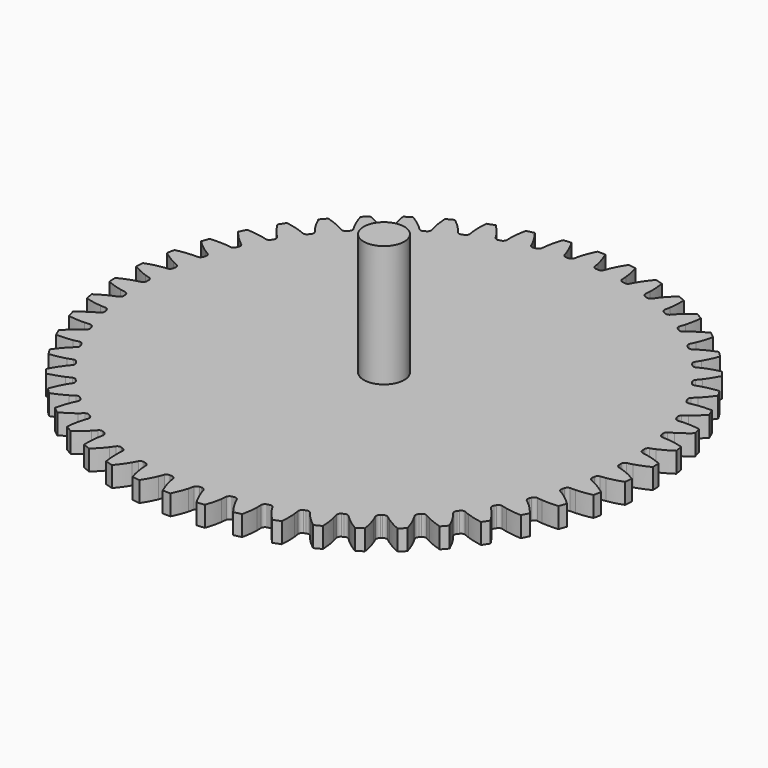
from build123d import *

# Parameters (mm, degrees)
PAD003_DEPTH            = 5
SKETCH003_R             = 5
POCKET002_DEPTH         = 5.001
SKETCH006_R             = 5
PAD006_DEPTH            = 30
BODY002_PLACEMENT_ANGLE = 2.2


with BuildPart() as part:
    # InvoluteGear003 → Pad003 (new body)
    with BuildSketch(Plane.XY):
        with BuildLine():
            add(Edge.make_bspline(
                [(59.943622, -2.600414), (60.304221, -2.541217), (60.738979, -2.453332), (61.24426, -2.323243)],
                knots=[0, 0, 0, 0, 1, 1, 1, 1], degree=3))
            add(Edge.make_bspline(
                [(61.24426, -2.323243), (62.239893, -2.066782), (63.503358, -1.64839), (64.993593, -0.968929)],
                knots=[0, 0, 0, 0, 1, 1, 1, 1], degree=3))
            ThreePointArc((64.993593, -0.968929), (65.000815, 0), (64.993593, 0.968929))
            add(Edge.make_bspline(
                [(64.993593, 0.968929), (63.503358, 1.64839), (62.239893, 2.066782), (61.24426, 2.323243)],
                knots=[0, 0, 0, 0, 1, 1, 1, 1], degree=3))
            add(Edge.make_bspline(
                [(61.24426, 2.323243), (60.738979, 2.453332), (60.304221, 2.541217), (59.943679, 2.600401)],
                knots=[0, 0, 0, 0, 1, 1, 1, 1], degree=3))
            ThreePointArc((59.943679, 2.600401), (59.459823, 2.936535), (59.272049, 3.494964))
            ThreePointArc((59.272049, 3.494964), (59.257837, 3.728187), (59.242707, 3.961352))
            ThreePointArc((59.242707, 3.961352), (59.358994, 4.538889), (59.796867, 4.933019))
            add(Edge.make_bspline(
                [(59.796867, 4.933019), (60.147203, 5.036944), (60.567518, 5.178626), (61.052511, 5.371018)],
                knots=[0, 0, 0, 0, 1, 1, 1, 1], degree=3))
            add(Edge.make_bspline(
                [(61.052511, 5.371018), (62.00815, 5.750243), (63.209213, 6.323689), (64.602538, 7.184568)],
                knots=[0, 0, 0, 0, 1, 1, 1, 1], degree=3))
            ThreePointArc((64.602538, 7.184568), (64.488264, 8.146762), (64.35966, 9.107146))
            add(Edge.make_bspline(
                [(64.35966, 9.107146), (62.796017, 9.594473), (61.490077, 9.851211), (60.470151, 9.980865)],
                knots=[0, 0, 0, 0, 1, 1, 1, 1], degree=3))
            add(Edge.make_bspline(
                [(60.470151, 9.980865), (59.95255, 10.0466), (59.510205, 10.079302), (59.145089, 10.092831)],
                knots=[0, 0, 0, 0, 1, 1, 1, 1], degree=3))
            ThreePointArc((59.145089, 10.092831), (58.622919, 10.365671), (58.366636, 10.896163))
            ThreePointArc((58.366636, 10.896163), (58.323306, 11.125766), (58.279071, 11.355196))
            ThreePointArc((58.279071, 11.355196), (58.322057, 11.942753), (58.70708, 12.388655))
            add(Edge.make_bspline(
                [(58.70708, 12.388655), (59.041628, 12.53567), (59.440871, 12.728913), (59.897926, 12.980574)],
                knots=[0, 0, 0, 0, 1, 1, 1, 1], degree=3))
            add(Edge.make_bspline(
                [(59.897926, 12.980574), (60.7985, 13.476582), (61.918221, 14.19604), (63.192663, 15.224761)],
                knots=[0, 0, 0, 0, 1, 1, 1, 1], degree=3))
            ThreePointArc((63.192663, 15.224761), (62.958695, 16.165045), (62.710737, 17.101738))
            add(Edge.make_bspline(
                [(62.710737, 17.101738), (61.098345, 17.389246), (59.770525, 17.480282), (58.742392, 17.481082)],
                knots=[0, 0, 0, 0, 1, 1, 1, 1], degree=3))
            add(Edge.make_bspline(
                [(58.742392, 17.481082), (58.220633, 17.481426), (57.777678, 17.45843), (57.413745, 17.426091)],
                knots=[0, 0, 0, 0, 1, 1, 1, 1], degree=3))
            ThreePointArc((57.413745, 17.426091), (56.861497, 17.631335), (56.540747, 18.125523))
            ThreePointArc((56.540747, 18.125523), (56.468981, 18.347884), (56.39634, 18.569961))
            ThreePointArc((56.39634, 18.569961), (56.365347, 19.158273), (56.691447, 19.648915))
            add(Edge.make_bspline(
                [(56.691447, 19.648915), (57.004931, 19.8367), (57.376806, 20.078459), (57.798716, 20.385419)],
                knots=[0, 0, 0, 0, 1, 1, 1, 1], degree=3))
            add(Edge.make_bspline(
                [(57.798716, 20.385419), (58.630022, 20.990388), (59.650742, 21.844511), (60.786201, 23.02485)],
                knots=[0, 0, 0, 0, 1, 1, 1, 1], degree=3))
            ThreePointArc((60.786201, 23.02485), (60.43623, 23.928396), (60.072828, 24.826625))
            add(Edge.make_bspline(
                [(60.072828, 24.826625), (58.437116, 24.909779), (57.108356, 24.833678), (56.08823, 24.705613)],
                knots=[0, 0, 0, 0, 1, 1, 1, 1], degree=3))
            add(Edge.make_bspline(
                [(56.08823, 24.705613), (55.570542, 24.64056), (55.133962, 24.562228), (54.776952, 24.484531)],
                knots=[0, 0, 0, 0, 1, 1, 1, 1], degree=3))
            ThreePointArc((54.776952, 24.484531), (54.203335, 24.618942), (53.823176, 25.069032))
            ThreePointArc((53.823176, 25.069032), (53.724106, 25.280645), (53.624205, 25.491867))
            ThreePointArc((53.624205, 25.491867), (53.519721, 26.071655), (53.781756, 26.5993))
            add(Edge.make_bspline(
                [(53.781756, 26.5993), (54.069232, 26.824894), (54.407874, 27.111355), (54.787985, 27.468774)],
                knots=[0, 0, 0, 0, 1, 1, 1, 1], degree=3))
            add(Edge.make_bspline(
                [(54.787985, 27.468774), (55.536914, 28.173163), (56.442535, 29.148481), (57.421105, 30.461823)],
                knots=[0, 0, 0, 0, 1, 1, 1, 1], degree=3))
            ThreePointArc((57.421105, 30.461823), (56.960649, 31.314382), (56.487535, 32.159981))
            add(Edge.make_bspline(
                [(56.487535, 32.159981), (54.854299, 32.037471), (53.545555, 31.795432), (52.549524, 31.540521)],
                knots=[0, 0, 0, 0, 1, 1, 1, 1], degree=3))
            add(Edge.make_bspline(
                [(52.549524, 31.540521), (52.044071, 31.411097), (51.620751, 31.278666), (51.276294, 31.156836)],
                knots=[0, 0, 0, 0, 1, 1, 1, 1], degree=3))
            ThreePointArc((51.276294, 31.156836), (50.690354, 31.218293), (50.256781, 31.617188))
            ThreePointArc((50.256781, 31.617188), (50.131971, 31.814716), (50.006384, 32.011751))
            ThreePointArc((50.006384, 32.011751), (49.830057, 32.573872), (50.023894, 33.130198))
            add(Edge.make_bspline(
                [(50.023894, 33.130198), (50.28083, 33.390044), (50.580898, 33.716688), (50.913215, 34.11893)],
                knots=[0, 0, 0, 0, 1, 1, 1, 1], degree=3))
            add(Edge.make_bspline(
                [(50.913215, 34.11893), (51.567955, 34.91163), (52.344195, 35.992762), (53.150444, 37.418395)],
                knots=[0, 0, 0, 0, 1, 1, 1, 1], degree=3))
            ThreePointArc((53.150444, 37.418395), (52.586764, 38.206521), (52.011399, 38.986156))
            add(Edge.make_bspline(
                [(52.011399, 38.986156), (50.406397, 38.659913), (49.138308, 38.255753), (48.182079, 37.878016)],
                knots=[0, 0, 0, 0, 1, 1, 1, 1], degree=3))
            add(Edge.make_bspline(
                [(48.182079, 37.878016), (47.696833, 37.686263), (47.29345, 37.50182), (46.966978, 37.337779)],
                knots=[0, 0, 0, 0, 1, 1, 1, 1], degree=3))
            ThreePointArc((46.966978, 37.337779), (46.377956, 37.325314), (45.897807, 37.666722))
            ThreePointArc((45.897807, 37.666722), (45.749224, 37.847049), (45.599932, 38.02679))
            ThreePointArc((45.599932, 38.02679), (45.354543, 38.562379), (45.477126, 39.138613))
            add(Edge.make_bspline(
                [(45.477126, 39.138613), (45.699468, 39.428612), (45.956231, 39.79029), (46.235514, 40.23101)],
                knots=[0, 0, 0, 0, 1, 1, 1, 1], degree=3))
            add(Edge.make_bspline(
                [(46.235514, 40.23101), (46.785739, 41.09952), (47.420356, 42.269415), (48.041568, 43.784857)],
                knots=[0, 0, 0, 0, 1, 1, 1, 1], degree=3))
            ThreePointArc((48.041568, 43.784857), (47.383555, 44.49612), (46.715013, 45.197495))
            add(Edge.make_bspline(
                [(46.715013, 45.197495), (45.163555, 44.672664), (43.95612, 44.112758), (43.054775, 43.618152)],
                knots=[0, 0, 0, 0, 1, 1, 1, 1], degree=3))
            add(Edge.make_bspline(
                [(43.054775, 43.618152), (42.597388, 43.367094), (42.220302, 43.133548), (41.916965, 42.929883)],
                knots=[0, 0, 0, 0, 1, 1, 1, 1], degree=3))
            ThreePointArc((41.916965, 42.929883), (41.334149, 42.843692), (40.814997, 43.122229))
            ThreePointArc((40.814997, 43.122229), (40.644984, 43.282512), (40.474343, 43.442125))
            ThreePointArc((40.474343, 43.442125), (40.163762, 43.942735), (40.213156, 44.529788))
            add(Edge.make_bspline(
                [(40.213156, 44.529788), (40.397399, 44.845368), (40.606807, 45.236375), (40.82865, 45.708623)],
                knots=[0, 0, 0, 0, 1, 1, 1, 1], degree=3))
            add(Edge.make_bspline(
                [(40.82865, 45.708623), (41.265684, 46.639246), (41.74867, 47.879455), (42.175048, 49.460806)],
                knots=[0, 0, 0, 0, 1, 1, 1, 1], degree=3))
            ThreePointArc((42.175048, 49.460806), (41.433079, 50.083989), (40.681903, 50.696043))
            add(Edge.make_bspline(
                [(40.681903, 50.696043), (39.208458, 49.980902), (38.080719, 49.274078), (37.248471, 48.670404)],
                knots=[0, 0, 0, 0, 1, 1, 1, 1], degree=3))
            add(Edge.make_bspline(
                [(37.248471, 48.670404), (36.826157, 48.364), (36.481316, 48.085034), (36.205896, 47.844956)],
                knots=[0, 0, 0, 0, 1, 1, 1, 1], degree=3))
            ThreePointArc((36.205896, 47.844956), (35.638479, 47.686399), (35.08851, 47.897673))
            ThreePointArc((35.08851, 47.897673), (34.899749, 48.035384), (34.710448, 48.172351))
            ThreePointArc((34.710448, 48.172351), (34.339573, 48.630088), (34.315001, 49.218703))
            add(Edge.make_bspline(
                [(34.315001, 49.218703), (34.458238, 49.554886), (34.616989, 49.969055), (34.777895, 50.465383)],
                knots=[0, 0, 0, 0, 1, 1, 1, 1], degree=3))
            add(Edge.make_bspline(
                [(34.777895, 50.465383), (35.094844, 51.443443), (35.418582, 52.734407), (35.643403, 54.356727)],
                knots=[0, 0, 0, 0, 1, 1, 1, 1], degree=3))
            ThreePointArc((35.643403, 54.356727), (34.829179, 54.882004), (34.007215, 55.395084))
            add(Edge.make_bspline(
                [(34.007215, 55.395084), (32.635019, 54.50091), (31.604761, 53.658317), (30.854737, 52.955095)],
                knots=[0, 0, 0, 0, 1, 1, 1, 1], degree=3))
            add(Edge.make_bspline(
                [(30.854737, 52.955095), (30.474155, 52.598177), (30.166997, 52.27819), (29.923839, 52.005487)],
                knots=[0, 0, 0, 0, 1, 1, 1, 1], degree=3))
            ThreePointArc((29.923839, 52.005487), (29.380768, 51.777063), (28.808656, 51.917742))
            ThreePointArc((28.808656, 51.917742), (28.604124, 52.030709), (28.39915, 52.14287))
            ThreePointArc((28.39915, 52.14287), (27.973829, 52.550515), (27.875678, 53.131409))
            add(Edge.make_bspline(
                [(27.875678, 53.131409), (27.975651, 53.482893), (28.081241, 53.913693), (28.178671, 54.426275)],
                knots=[0, 0, 0, 0, 1, 1, 1, 1], degree=3))
            add(Edge.make_bspline(
                [(28.178671, 54.426275), (28.370538, 55.436347), (28.529922, 56.757706), (28.549639, 58.395411)],
                knots=[0, 0, 0, 0, 1, 1, 1, 1], degree=3))
            ThreePointArc((28.549639, 58.395411), (27.676001, 58.814496), (26.796213, 59.220511))
            add(Edge.make_bspline(
                [(26.796213, 59.220511), (25.546907, 58.161406), (24.630378, 57.196332), (23.974405, 56.404652)],
                knots=[0, 0, 0, 0, 1, 1, 1, 1], degree=3))
            add(Edge.make_bspline(
                [(23.974405, 56.404652), (23.641558, 56.002849), (23.376926, 55.646888), (23.169864, 55.345859)],
                knots=[0, 0, 0, 0, 1, 1, 1, 1], degree=3))
            ThreePointArc((23.169864, 55.345859), (22.659705, 55.051172), (22.074473, 55.119037))
            ThreePointArc((22.074473, 55.119037), (21.857395, 55.205479), (21.639979, 55.291065))
            ThreePointArc((21.639979, 55.291065), (21.166921, 55.642189), (20.996739, 56.2062))
            add(Edge.make_bspline(
                [(20.996739, 56.2062), (21.05187, 56.567443), (21.102634, 57.00808), (21.135053, 57.528831)],
                knots=[0, 0, 0, 0, 1, 1, 1, 1], degree=3))
            add(Edge.make_bspline(
                [(21.135053, 57.528831), (21.198811, 58.554986), (21.191329, 59.885902), (21.005631, 61.513165)],
                knots=[0, 0, 0, 0, 1, 1, 1, 1], degree=3))
            ThreePointArc((21.005631, 61.513165), (20.086357, 61.819449), (19.162618, 62.111996))
            add(Edge.make_bspline(
                [(19.162618, 62.111996), (18.055905, 60.904663), (17.267559, 59.832327), (16.715982, 58.964674)],
                knots=[0, 0, 0, 0, 1, 1, 1, 1], degree=3))
            add(Edge.make_bspline(
                [(16.715982, 58.964674), (16.436119, 58.524323), (16.218188, 58.138002), (16.050488, 57.813395)],
                knots=[0, 0, 0, 0, 1, 1, 1, 1], degree=3))
            ThreePointArc((16.050488, 57.813395), (15.581285, 57.457092), (14.992162, 57.451072))
            ThreePointArc((14.992162, 57.451072), (14.765962, 57.509625), (14.539534, 57.567287))
            ThreePointArc((14.539534, 57.567287), (14.026198, 57.856352), (13.786668, 58.394587))
            add(Edge.make_bspline(
                [(13.786668, 58.394587), (13.796089, 58.759891), (13.791227, 59.203416), (13.758122, 59.724124)],
                knots=[0, 0, 0, 0, 1, 1, 1, 1], degree=3))
            add(Edge.make_bspline(
                [(13.758122, 59.724124), (13.692766, 60.750178), (13.518535, 62.069661), (13.130352, 63.660819)],
                knots=[0, 0, 0, 0, 1, 1, 1, 1], degree=3))
            ThreePointArc((13.130352, 63.660819), (12.179938, 63.849472), (11.226818, 64.023937))
            add(Edge.make_bspline(
                [(11.226818, 64.023937), (10.28015, 62.687416), (9.63242, 61.52473), (9.193938, 60.594788)],
                knots=[0, 0, 0, 0, 1, 1, 1, 1], degree=3))
            add(Edge.make_bspline(
                [(9.193938, 60.594788), (8.971473, 60.122833), (8.803679, 59.712244), (8.677985, 59.369178)],
                knots=[0, 0, 0, 0, 1, 1, 1, 1], degree=3))
            ThreePointArc((8.677985, 59.369178), (8.257139, 58.956878), (7.673415, 58.87707))
            ThreePointArc((7.673415, 58.87707), (7.441661, 58.90681), (7.209791, 58.935639))
            ThreePointArc((7.209791, 58.935639), (6.664274, 59.158086), (6.359174, 59.662056))
            add(Edge.make_bspline(
                [(6.359174, 59.662056), (6.322736, 60.02566), (6.262323, 60.465078), (6.164217, 60.977531)],
                knots=[0, 0, 0, 0, 1, 1, 1, 1], degree=3))
            add(Edge.make_bspline(
                [(6.164217, 60.977531), (5.970778, 61.987303), (5.632546, 63.274545), (5.047999, 64.804504)],
                knots=[0, 0, 0, 0, 1, 1, 1, 1], degree=3))
            ThreePointArc((5.047999, 64.804504), (4.081435, 64.872551), (3.113964, 64.926183))
            add(Edge.make_bspline(
                [(3.113964, 64.926183), (2.342272, 63.481552), (1.845372, 62.246851), (1.5269, 61.269286)],
                knots=[0, 0, 0, 0, 1, 1, 1, 1], degree=3))
            add(Edge.make_bspline(
                [(1.5269, 61.269286), (1.365341, 60.77317), (1.250331, 60.344789), (1.168625, 59.988674)],
                knots=[0, 0, 0, 0, 1, 1, 1, 1], degree=3))
            ThreePointArc((1.168625, 59.988674), (0.802773, 59.526879), (0.233655, 59.37454))
            ThreePointArc((0.233655, 59.37454), (0, 59.375), (-0.233655, 59.37454))
            ThreePointArc((-0.233655, 59.37454), (-0.80275, 59.526862), (-1.168608, 59.988619))
            add(Edge.make_bspline(
                [(-1.168608, 59.988619), (-1.250331, 60.344789), (-1.365341, 60.77317), (-1.5269, 61.269286)],
                knots=[0, 0, 0, 0, 1, 1, 1, 1], degree=3))
            add(Edge.make_bspline(
                [(-1.5269, 61.269286), (-1.845372, 62.246851), (-2.342272, 63.481552), (-3.113964, 64.926183)],
                knots=[0, 0, 0, 0, 1, 1, 1, 1], degree=3))
            ThreePointArc((-3.113964, 64.926183), (-4.081435, 64.872551), (-5.047999, 64.804504))
            add(Edge.make_bspline(
                [(-5.047999, 64.804504), (-5.632546, 63.274545), (-5.970778, 61.987303), (-6.164217, 60.977531)],
                knots=[0, 0, 0, 0, 1, 1, 1, 1], degree=3))
            add(Edge.make_bspline(
                [(-6.164217, 60.977531), (-6.262323, 60.465078), (-6.322736, 60.02566), (-6.359164, 59.662113)],
                knots=[0, 0, 0, 0, 1, 1, 1, 1], degree=3))
            ThreePointArc((-6.359164, 59.662113), (-6.664253, 59.158106), (-7.209791, 58.935639))
            ThreePointArc((-7.209791, 58.935639), (-7.441661, 58.90681), (-7.673415, 58.87707))
            ThreePointArc((-7.673415, 58.87707), (-8.257114, 58.956864), (-8.677961, 59.369125))
            add(Edge.make_bspline(
                [(-8.677961, 59.369125), (-8.803679, 59.712244), (-8.971473, 60.122833), (-9.193938, 60.594788)],
                knots=[0, 0, 0, 0, 1, 1, 1, 1], degree=3))
            add(Edge.make_bspline(
                [(-9.193938, 60.594788), (-9.63242, 61.52473), (-10.28015, 62.687416), (-11.226818, 64.023937)],
                knots=[0, 0, 0, 0, 1, 1, 1, 1], degree=3))
            ThreePointArc((-11.226818, 64.023937), (-12.179938, 63.849472), (-13.130352, 63.660819))
            add(Edge.make_bspline(
                [(-13.130352, 63.660819), (-13.518535, 62.069661), (-13.692766, 60.750178), (-13.758122, 59.724124)],
                knots=[0, 0, 0, 0, 1, 1, 1, 1], degree=3))
            add(Edge.make_bspline(
                [(-13.758122, 59.724124), (-13.791227, 59.203416), (-13.796089, 58.759891), (-13.786666, 58.394645)],
                knots=[0, 0, 0, 0, 1, 1, 1, 1], degree=3))
            ThreePointArc((-13.786666, 58.394645), (-14.026181, 57.856375), (-14.539534, 57.567287))
            ThreePointArc((-14.539534, 57.567287), (-14.765962, 57.509625), (-14.992162, 57.451072))
            ThreePointArc((-14.992162, 57.451072), (-15.581259, 57.45708), (-16.050457, 57.813345))
            add(Edge.make_bspline(
                [(-16.050457, 57.813345), (-16.218188, 58.138002), (-16.436119, 58.524323), (-16.715982, 58.964674)],
                knots=[0, 0, 0, 0, 1, 1, 1, 1], degree=3))
            add(Edge.make_bspline(
                [(-16.715982, 58.964674), (-17.267559, 59.832327), (-18.055905, 60.904663), (-19.162618, 62.111996)],
                knots=[0, 0, 0, 0, 1, 1, 1, 1], degree=3))
            ThreePointArc((-19.162618, 62.111996), (-20.086357, 61.819449), (-21.005631, 61.513165))
            add(Edge.make_bspline(
                [(-21.005631, 61.513165), (-21.191329, 59.885902), (-21.198811, 58.554986), (-21.135053, 57.528831)],
                knots=[0, 0, 0, 0, 1, 1, 1, 1], degree=3))
            add(Edge.make_bspline(
                [(-21.135053, 57.528831), (-21.102634, 57.00808), (-21.05187, 56.567443), (-20.996744, 56.206259)],
                knots=[0, 0, 0, 0, 1, 1, 1, 1], degree=3))
            ThreePointArc((-20.996744, 56.206259), (-21.166907, 55.642213), (-21.639979, 55.291065))
            ThreePointArc((-21.639979, 55.291065), (-21.857395, 55.205479), (-22.074473, 55.119037))
            ThreePointArc((-22.074473, 55.119037), (-22.659678, 55.051165), (-23.169828, 55.345813))
            add(Edge.make_bspline(
                [(-23.169828, 55.345813), (-23.376926, 55.646888), (-23.641558, 56.002849), (-23.974405, 56.404652)],
                knots=[0, 0, 0, 0, 1, 1, 1, 1], degree=3))
            add(Edge.make_bspline(
                [(-23.974405, 56.404652), (-24.630378, 57.196332), (-25.546907, 58.161406), (-26.796213, 59.220511)],
                knots=[0, 0, 0, 0, 1, 1, 1, 1], degree=3))
            ThreePointArc((-26.796213, 59.220511), (-27.676001, 58.814496), (-28.549639, 58.395411))
            add(Edge.make_bspline(
                [(-28.549639, 58.395411), (-28.529922, 56.757706), (-28.370538, 55.436347), (-28.178671, 54.426275)],
                knots=[0, 0, 0, 0, 1, 1, 1, 1], degree=3))
            add(Edge.make_bspline(
                [(-28.178671, 54.426275), (-28.081241, 53.913693), (-27.975651, 53.482893), (-27.87569, 53.131466)],
                knots=[0, 0, 0, 0, 1, 1, 1, 1], degree=3))
            ThreePointArc((-27.87569, 53.131466), (-27.973818, 52.550541), (-28.39915, 52.14287))
            ThreePointArc((-28.39915, 52.14287), (-28.604124, 52.030709), (-28.808656, 51.917742))
            ThreePointArc((-28.808656, 51.917742), (-29.38074, 51.777059), (-29.923797, 52.005446))
            add(Edge.make_bspline(
                [(-29.923797, 52.005446), (-30.166997, 52.27819), (-30.474155, 52.598177), (-30.854737, 52.955095)],
                knots=[0, 0, 0, 0, 1, 1, 1, 1], degree=3))
            add(Edge.make_bspline(
                [(-30.854737, 52.955095), (-31.604761, 53.658317), (-32.635019, 54.50091), (-34.007215, 55.395084)],
                knots=[0, 0, 0, 0, 1, 1, 1, 1], degree=3))
            ThreePointArc((-34.007215, 55.395084), (-34.829179, 54.882004), (-35.643403, 54.356727))
            add(Edge.make_bspline(
                [(-35.643403, 54.356727), (-35.418582, 52.734407), (-35.094844, 51.443443), (-34.777895, 50.465383)],
                knots=[0, 0, 0, 0, 1, 1, 1, 1], degree=3))
            add(Edge.make_bspline(
                [(-34.777895, 50.465383), (-34.616989, 49.969055), (-34.458238, 49.554886), (-34.31502, 49.218758)],
                knots=[0, 0, 0, 0, 1, 1, 1, 1], degree=3))
            ThreePointArc((-34.31502, 49.218758), (-34.339565, 48.630115), (-34.710448, 48.172351))
            ThreePointArc((-34.710448, 48.172351), (-34.899749, 48.035384), (-35.08851, 47.897673))
            ThreePointArc((-35.08851, 47.897673), (-35.63845, 47.686398), (-36.205849, 47.844921))
            add(Edge.make_bspline(
                [(-36.205849, 47.844921), (-36.481316, 48.085034), (-36.826157, 48.364), (-37.248471, 48.670404)],
                knots=[0, 0, 0, 0, 1, 1, 1, 1], degree=3))
            add(Edge.make_bspline(
                [(-37.248471, 48.670404), (-38.080719, 49.274078), (-39.208458, 49.980902), (-40.681903, 50.696043)],
                knots=[0, 0, 0, 0, 1, 1, 1, 1], degree=3))
            ThreePointArc((-40.681903, 50.696043), (-41.433079, 50.083989), (-42.175048, 49.460806))
            add(Edge.make_bspline(
                [(-42.175048, 49.460806), (-41.74867, 47.879455), (-41.265684, 46.639246), (-40.82865, 45.708623)],
                knots=[0, 0, 0, 0, 1, 1, 1, 1], degree=3))
            add(Edge.make_bspline(
                [(-40.82865, 45.708623), (-40.606807, 45.236375), (-40.397399, 44.845368), (-40.213182, 44.529841)],
                knots=[0, 0, 0, 0, 1, 1, 1, 1], degree=3))
            ThreePointArc((-40.213182, 44.529841), (-40.163757, 43.942764), (-40.474343, 43.442125))
            ThreePointArc((-40.474343, 43.442125), (-40.644984, 43.282512), (-40.814997, 43.122229))
            ThreePointArc((-40.814997, 43.122229), (-41.334121, 42.843695), (-41.916914, 42.929853))
            add(Edge.make_bspline(
                [(-41.916914, 42.929853), (-42.220302, 43.133548), (-42.597388, 43.367094), (-43.054775, 43.618152)],
                knots=[0, 0, 0, 0, 1, 1, 1, 1], degree=3))
            add(Edge.make_bspline(
                [(-43.054775, 43.618152), (-43.95612, 44.112758), (-45.163555, 44.672664), (-46.715013, 45.197495)],
                knots=[0, 0, 0, 0, 1, 1, 1, 1], degree=3))
            ThreePointArc((-46.715013, 45.197495), (-47.383555, 44.49612), (-48.041568, 43.784857))
            add(Edge.make_bspline(
                [(-48.041568, 43.784857), (-47.420356, 42.269415), (-46.785739, 41.09952), (-46.235514, 40.23101)],
                knots=[0, 0, 0, 0, 1, 1, 1, 1], degree=3))
            add(Edge.make_bspline(
                [(-46.235514, 40.23101), (-45.956231, 39.79029), (-45.699468, 39.428612), (-45.477158, 39.138662)],
                knots=[0, 0, 0, 0, 1, 1, 1, 1], degree=3))
            ThreePointArc((-45.477158, 39.138662), (-45.354542, 38.562408), (-45.599932, 38.02679))
            ThreePointArc((-45.599932, 38.02679), (-45.749224, 37.847049), (-45.897807, 37.666722))
            ThreePointArc((-45.897807, 37.666722), (-46.377928, 37.32532), (-46.966924, 37.337756))
            add(Edge.make_bspline(
                [(-46.966924, 37.337756), (-47.29345, 37.50182), (-47.696833, 37.686263), (-48.182079, 37.878016)],
                knots=[0, 0, 0, 0, 1, 1, 1, 1], degree=3))
            add(Edge.make_bspline(
                [(-48.182079, 37.878016), (-49.138308, 38.255753), (-50.406397, 38.659913), (-52.011399, 38.986156)],
                knots=[0, 0, 0, 0, 1, 1, 1, 1], degree=3))
            ThreePointArc((-52.011399, 38.986156), (-52.586764, 38.206521), (-53.150444, 37.418395))
            add(Edge.make_bspline(
                [(-53.150444, 37.418395), (-52.344195, 35.992762), (-51.567955, 34.91163), (-50.913215, 34.11893)],
                knots=[0, 0, 0, 0, 1, 1, 1, 1], degree=3))
            add(Edge.make_bspline(
                [(-50.913215, 34.11893), (-50.580898, 33.716688), (-50.28083, 33.390044), (-50.023932, 33.130242)],
                knots=[0, 0, 0, 0, 1, 1, 1, 1], degree=3))
            ThreePointArc((-50.023932, 33.130242), (-49.830059, 32.573901), (-50.006384, 32.011751))
            ThreePointArc((-50.006384, 32.011751), (-50.131971, 31.814716), (-50.256781, 31.617188))
            ThreePointArc((-50.256781, 31.617188), (-50.690327, 31.218303), (-51.276238, 31.15682))
            add(Edge.make_bspline(
                [(-51.276238, 31.15682), (-51.620751, 31.278666), (-52.044071, 31.411097), (-52.549524, 31.540521)],
                knots=[0, 0, 0, 0, 1, 1, 1, 1], degree=3))
            add(Edge.make_bspline(
                [(-52.549524, 31.540521), (-53.545555, 31.795432), (-54.854299, 32.037471), (-56.487535, 32.159981)],
                knots=[0, 0, 0, 0, 1, 1, 1, 1], degree=3))
            ThreePointArc((-56.487535, 32.159981), (-56.960649, 31.314382), (-57.421105, 30.461823))
            add(Edge.make_bspline(
                [(-57.421105, 30.461823), (-56.442535, 29.148481), (-55.536914, 28.173163), (-54.787985, 27.468774)],
                knots=[0, 0, 0, 0, 1, 1, 1, 1], degree=3))
            add(Edge.make_bspline(
                [(-54.787985, 27.468774), (-54.407874, 27.111355), (-54.069232, 26.824894), (-53.781799, 26.599339)],
                knots=[0, 0, 0, 0, 1, 1, 1, 1], degree=3))
            ThreePointArc((-53.781799, 26.599339), (-53.519727, 26.071683), (-53.624205, 25.491867))
            ThreePointArc((-53.624205, 25.491867), (-53.724106, 25.280645), (-53.823176, 25.069032))
            ThreePointArc((-53.823176, 25.069032), (-54.20331, 24.618955), (-54.776894, 24.484523))
            add(Edge.make_bspline(
                [(-54.776894, 24.484523), (-55.133962, 24.562228), (-55.570542, 24.64056), (-56.08823, 24.705613)],
                knots=[0, 0, 0, 0, 1, 1, 1, 1], degree=3))
            add(Edge.make_bspline(
                [(-56.08823, 24.705613), (-57.108356, 24.833678), (-58.437116, 24.909779), (-60.072828, 24.826625)],
                knots=[0, 0, 0, 0, 1, 1, 1, 1], degree=3))
            ThreePointArc((-60.072828, 24.826625), (-60.43623, 23.928396), (-60.786201, 23.02485))
            add(Edge.make_bspline(
                [(-60.786201, 23.02485), (-59.650742, 21.844511), (-58.630022, 20.990388), (-57.798716, 20.385419)],
                knots=[0, 0, 0, 0, 1, 1, 1, 1], degree=3))
            add(Edge.make_bspline(
                [(-57.798716, 20.385419), (-57.376806, 20.078459), (-57.004931, 19.8367), (-56.691495, 19.648949)],
                knots=[0, 0, 0, 0, 1, 1, 1, 1], degree=3))
            ThreePointArc((-56.691495, 19.648949), (-56.365356, 19.1583), (-56.39634, 18.569961))
            ThreePointArc((-56.39634, 18.569961), (-56.468981, 18.347884), (-56.540747, 18.125523))
            ThreePointArc((-56.540747, 18.125523), (-56.861473, 17.631351), (-57.413686, 17.42609))
            add(Edge.make_bspline(
                [(-57.413686, 17.42609), (-57.777678, 17.45843), (-58.220633, 17.481426), (-58.742392, 17.481082)],
                knots=[0, 0, 0, 0, 1, 1, 1, 1], degree=3))
            add(Edge.make_bspline(
                [(-58.742392, 17.481082), (-59.770525, 17.480282), (-61.098345, 17.389246), (-62.710737, 17.101738)],
                knots=[0, 0, 0, 0, 1, 1, 1, 1], degree=3))
            ThreePointArc((-62.710737, 17.101738), (-62.958695, 16.165045), (-63.192663, 15.224761))
            add(Edge.make_bspline(
                [(-63.192663, 15.224761), (-61.918221, 14.19604), (-60.7985, 13.476582), (-59.897926, 12.980574)],
                knots=[0, 0, 0, 0, 1, 1, 1, 1], degree=3))
            add(Edge.make_bspline(
                [(-59.897926, 12.980574), (-59.440871, 12.728913), (-59.041628, 12.53567), (-58.707132, 12.388683)],
                knots=[0, 0, 0, 0, 1, 1, 1, 1], degree=3))
            ThreePointArc((-58.707132, 12.388683), (-58.32207, 11.942779), (-58.279071, 11.355196))
            ThreePointArc((-58.279071, 11.355196), (-58.323306, 11.125766), (-58.366636, 10.896163))
            ThreePointArc((-58.366636, 10.896163), (-58.622898, 10.36569), (-59.145031, 10.092837))
            add(Edge.make_bspline(
                [(-59.145031, 10.092837), (-59.510205, 10.079302), (-59.95255, 10.0466), (-60.470151, 9.980865)],
                knots=[0, 0, 0, 0, 1, 1, 1, 1], degree=3))
            add(Edge.make_bspline(
                [(-60.470151, 9.980865), (-61.490077, 9.851211), (-62.796017, 9.594473), (-64.35966, 9.107146)],
                knots=[0, 0, 0, 0, 1, 1, 1, 1], degree=3))
            ThreePointArc((-64.35966, 9.107146), (-64.488264, 8.146762), (-64.602538, 7.184568))
            add(Edge.make_bspline(
                [(-64.602538, 7.184568), (-63.209213, 6.323689), (-62.00815, 5.750243), (-61.052511, 5.371018)],
                knots=[0, 0, 0, 0, 1, 1, 1, 1], degree=3))
            add(Edge.make_bspline(
                [(-61.052511, 5.371018), (-60.567518, 5.178626), (-60.147203, 5.036944), (-59.796922, 4.933039)],
                knots=[0, 0, 0, 0, 1, 1, 1, 1], degree=3))
            ThreePointArc((-59.796922, 4.933039), (-59.35901, 4.538913), (-59.242707, 3.961352))
            ThreePointArc((-59.242707, 3.961352), (-59.257837, 3.728187), (-59.272049, 3.494964))
            ThreePointArc((-59.272049, 3.494964), (-59.459805, 2.936557), (-59.943622, 2.600414))
            add(Edge.make_bspline(
                [(-59.943622, 2.600414), (-60.304221, 2.541217), (-60.738979, 2.453332), (-61.24426, 2.323243)],
                knots=[0, 0, 0, 0, 1, 1, 1, 1], degree=3))
            add(Edge.make_bspline(
                [(-61.24426, 2.323243), (-62.239893, 2.066782), (-63.503358, 1.64839), (-64.993593, 0.968929)],
                knots=[0, 0, 0, 0, 1, 1, 1, 1], degree=3))
            ThreePointArc((-64.993593, 0.968929), (-65.000815, 0), (-64.993593, -0.968929))
            add(Edge.make_bspline(
                [(-64.993593, -0.968929), (-63.503358, -1.64839), (-62.239893, -2.066782), (-61.24426, -2.323243)],
                knots=[0, 0, 0, 0, 1, 1, 1, 1], degree=3))
            add(Edge.make_bspline(
                [(-61.24426, -2.323243), (-60.738979, -2.453332), (-60.304221, -2.541217), (-59.943679, -2.600401)],
                knots=[0, 0, 0, 0, 1, 1, 1, 1], degree=3))
            ThreePointArc((-59.943679, -2.600401), (-59.459823, -2.936535), (-59.272049, -3.494964))
            ThreePointArc((-59.272049, -3.494964), (-59.257837, -3.728187), (-59.242707, -3.961352))
            ThreePointArc((-59.242707, -3.961352), (-59.358994, -4.538889), (-59.796867, -4.933019))
            add(Edge.make_bspline(
                [(-59.796867, -4.933019), (-60.147203, -5.036944), (-60.567518, -5.178626), (-61.052511, -5.371018)],
                knots=[0, 0, 0, 0, 1, 1, 1, 1], degree=3))
            add(Edge.make_bspline(
                [(-61.052511, -5.371018), (-62.00815, -5.750243), (-63.209213, -6.323689), (-64.602538, -7.184568)],
                knots=[0, 0, 0, 0, 1, 1, 1, 1], degree=3))
            ThreePointArc((-64.602538, -7.184568), (-64.488264, -8.146762), (-64.35966, -9.107146))
            add(Edge.make_bspline(
                [(-64.35966, -9.107146), (-62.796017, -9.594473), (-61.490077, -9.851211), (-60.470151, -9.980865)],
                knots=[0, 0, 0, 0, 1, 1, 1, 1], degree=3))
            add(Edge.make_bspline(
                [(-60.470151, -9.980865), (-59.95255, -10.0466), (-59.510205, -10.079302), (-59.145089, -10.092831)],
                knots=[0, 0, 0, 0, 1, 1, 1, 1], degree=3))
            ThreePointArc((-59.145089, -10.092831), (-58.622919, -10.365671), (-58.366636, -10.896163))
            ThreePointArc((-58.366636, -10.896163), (-58.323306, -11.125766), (-58.279071, -11.355196))
            ThreePointArc((-58.279071, -11.355196), (-58.322057, -11.942753), (-58.70708, -12.388655))
            add(Edge.make_bspline(
                [(-58.70708, -12.388655), (-59.041628, -12.53567), (-59.440871, -12.728913), (-59.897926, -12.980574)],
                knots=[0, 0, 0, 0, 1, 1, 1, 1], degree=3))
            add(Edge.make_bspline(
                [(-59.897926, -12.980574), (-60.7985, -13.476582), (-61.918221, -14.19604), (-63.192663, -15.224761)],
                knots=[0, 0, 0, 0, 1, 1, 1, 1], degree=3))
            ThreePointArc((-63.192663, -15.224761), (-62.958695, -16.165045), (-62.710737, -17.101738))
            add(Edge.make_bspline(
                [(-62.710737, -17.101738), (-61.098345, -17.389246), (-59.770525, -17.480282), (-58.742392, -17.481082)],
                knots=[0, 0, 0, 0, 1, 1, 1, 1], degree=3))
            add(Edge.make_bspline(
                [(-58.742392, -17.481082), (-58.220633, -17.481426), (-57.777678, -17.45843), (-57.413745, -17.426091)],
                knots=[0, 0, 0, 0, 1, 1, 1, 1], degree=3))
            ThreePointArc((-57.413745, -17.426091), (-56.861497, -17.631335), (-56.540747, -18.125523))
            ThreePointArc((-56.540747, -18.125523), (-56.468981, -18.347884), (-56.39634, -18.569961))
            ThreePointArc((-56.39634, -18.569961), (-56.365347, -19.158273), (-56.691447, -19.648915))
            add(Edge.make_bspline(
                [(-56.691447, -19.648915), (-57.004931, -19.8367), (-57.376806, -20.078459), (-57.798716, -20.385419)],
                knots=[0, 0, 0, 0, 1, 1, 1, 1], degree=3))
            add(Edge.make_bspline(
                [(-57.798716, -20.385419), (-58.630022, -20.990388), (-59.650742, -21.844511), (-60.786201, -23.02485)],
                knots=[0, 0, 0, 0, 1, 1, 1, 1], degree=3))
            ThreePointArc((-60.786201, -23.02485), (-60.43623, -23.928396), (-60.072828, -24.826625))
            add(Edge.make_bspline(
                [(-60.072828, -24.826625), (-58.437116, -24.909779), (-57.108356, -24.833678), (-56.08823, -24.705613)],
                knots=[0, 0, 0, 0, 1, 1, 1, 1], degree=3))
            add(Edge.make_bspline(
                [(-56.08823, -24.705613), (-55.570542, -24.64056), (-55.133962, -24.562228), (-54.776952, -24.484531)],
                knots=[0, 0, 0, 0, 1, 1, 1, 1], degree=3))
            ThreePointArc((-54.776952, -24.484531), (-54.203335, -24.618942), (-53.823176, -25.069032))
            ThreePointArc((-53.823176, -25.069032), (-53.724106, -25.280645), (-53.624205, -25.491867))
            ThreePointArc((-53.624205, -25.491867), (-53.519721, -26.071655), (-53.781756, -26.5993))
            add(Edge.make_bspline(
                [(-53.781756, -26.5993), (-54.069232, -26.824894), (-54.407874, -27.111355), (-54.787985, -27.468774)],
                knots=[0, 0, 0, 0, 1, 1, 1, 1], degree=3))
            add(Edge.make_bspline(
                [(-54.787985, -27.468774), (-55.536914, -28.173163), (-56.442535, -29.148481), (-57.421105, -30.461823)],
                knots=[0, 0, 0, 0, 1, 1, 1, 1], degree=3))
            ThreePointArc((-57.421105, -30.461823), (-56.960649, -31.314382), (-56.487535, -32.159981))
            add(Edge.make_bspline(
                [(-56.487535, -32.159981), (-54.854299, -32.037471), (-53.545555, -31.795432), (-52.549524, -31.540521)],
                knots=[0, 0, 0, 0, 1, 1, 1, 1], degree=3))
            add(Edge.make_bspline(
                [(-52.549524, -31.540521), (-52.044071, -31.411097), (-51.620751, -31.278666), (-51.276294, -31.156836)],
                knots=[0, 0, 0, 0, 1, 1, 1, 1], degree=3))
            ThreePointArc((-51.276294, -31.156836), (-50.690354, -31.218293), (-50.256781, -31.617188))
            ThreePointArc((-50.256781, -31.617188), (-50.131971, -31.814716), (-50.006384, -32.011751))
            ThreePointArc((-50.006384, -32.011751), (-49.830057, -32.573872), (-50.023894, -33.130198))
            add(Edge.make_bspline(
                [(-50.023894, -33.130198), (-50.28083, -33.390044), (-50.580898, -33.716688), (-50.913215, -34.11893)],
                knots=[0, 0, 0, 0, 1, 1, 1, 1], degree=3))
            add(Edge.make_bspline(
                [(-50.913215, -34.11893), (-51.567955, -34.91163), (-52.344195, -35.992762), (-53.150444, -37.418395)],
                knots=[0, 0, 0, 0, 1, 1, 1, 1], degree=3))
            ThreePointArc((-53.150444, -37.418395), (-52.586764, -38.206521), (-52.011399, -38.986156))
            add(Edge.make_bspline(
                [(-52.011399, -38.986156), (-50.406397, -38.659913), (-49.138308, -38.255753), (-48.182079, -37.878016)],
                knots=[0, 0, 0, 0, 1, 1, 1, 1], degree=3))
            add(Edge.make_bspline(
                [(-48.182079, -37.878016), (-47.696833, -37.686263), (-47.29345, -37.50182), (-46.966978, -37.337779)],
                knots=[0, 0, 0, 0, 1, 1, 1, 1], degree=3))
            ThreePointArc((-46.966978, -37.337779), (-46.377956, -37.325314), (-45.897807, -37.666722))
            ThreePointArc((-45.897807, -37.666722), (-45.749224, -37.847049), (-45.599932, -38.02679))
            ThreePointArc((-45.599932, -38.02679), (-45.354543, -38.562379), (-45.477126, -39.138613))
            add(Edge.make_bspline(
                [(-45.477126, -39.138613), (-45.699468, -39.428612), (-45.956231, -39.79029), (-46.235514, -40.23101)],
                knots=[0, 0, 0, 0, 1, 1, 1, 1], degree=3))
            add(Edge.make_bspline(
                [(-46.235514, -40.23101), (-46.785739, -41.09952), (-47.420356, -42.269415), (-48.041568, -43.784857)],
                knots=[0, 0, 0, 0, 1, 1, 1, 1], degree=3))
            ThreePointArc((-48.041568, -43.784857), (-47.383555, -44.49612), (-46.715013, -45.197495))
            add(Edge.make_bspline(
                [(-46.715013, -45.197495), (-45.163555, -44.672664), (-43.95612, -44.112758), (-43.054775, -43.618152)],
                knots=[0, 0, 0, 0, 1, 1, 1, 1], degree=3))
            add(Edge.make_bspline(
                [(-43.054775, -43.618152), (-42.597388, -43.367094), (-42.220302, -43.133548), (-41.916965, -42.929883)],
                knots=[0, 0, 0, 0, 1, 1, 1, 1], degree=3))
            ThreePointArc((-41.916965, -42.929883), (-41.334149, -42.843692), (-40.814997, -43.122229))
            ThreePointArc((-40.814997, -43.122229), (-40.644984, -43.282512), (-40.474343, -43.442125))
            ThreePointArc((-40.474343, -43.442125), (-40.163762, -43.942735), (-40.213156, -44.529788))
            add(Edge.make_bspline(
                [(-40.213156, -44.529788), (-40.397399, -44.845368), (-40.606807, -45.236375), (-40.82865, -45.708623)],
                knots=[0, 0, 0, 0, 1, 1, 1, 1], degree=3))
            add(Edge.make_bspline(
                [(-40.82865, -45.708623), (-41.265684, -46.639246), (-41.74867, -47.879455), (-42.175048, -49.460806)],
                knots=[0, 0, 0, 0, 1, 1, 1, 1], degree=3))
            ThreePointArc((-42.175048, -49.460806), (-41.433079, -50.083989), (-40.681903, -50.696043))
            add(Edge.make_bspline(
                [(-40.681903, -50.696043), (-39.208458, -49.980902), (-38.080719, -49.274078), (-37.248471, -48.670404)],
                knots=[0, 0, 0, 0, 1, 1, 1, 1], degree=3))
            add(Edge.make_bspline(
                [(-37.248471, -48.670404), (-36.826157, -48.364), (-36.481316, -48.085034), (-36.205896, -47.844956)],
                knots=[0, 0, 0, 0, 1, 1, 1, 1], degree=3))
            ThreePointArc((-36.205896, -47.844956), (-35.638479, -47.686399), (-35.08851, -47.897673))
            ThreePointArc((-35.08851, -47.897673), (-34.899749, -48.035384), (-34.710448, -48.172351))
            ThreePointArc((-34.710448, -48.172351), (-34.339573, -48.630088), (-34.315001, -49.218703))
            add(Edge.make_bspline(
                [(-34.315001, -49.218703), (-34.458238, -49.554886), (-34.616989, -49.969055), (-34.777895, -50.465383)],
                knots=[0, 0, 0, 0, 1, 1, 1, 1], degree=3))
            add(Edge.make_bspline(
                [(-34.777895, -50.465383), (-35.094844, -51.443443), (-35.418582, -52.734407), (-35.643403, -54.356727)],
                knots=[0, 0, 0, 0, 1, 1, 1, 1], degree=3))
            ThreePointArc((-35.643403, -54.356727), (-34.829179, -54.882004), (-34.007215, -55.395084))
            add(Edge.make_bspline(
                [(-34.007215, -55.395084), (-32.635019, -54.50091), (-31.604761, -53.658317), (-30.854737, -52.955095)],
                knots=[0, 0, 0, 0, 1, 1, 1, 1], degree=3))
            add(Edge.make_bspline(
                [(-30.854737, -52.955095), (-30.474155, -52.598177), (-30.166997, -52.27819), (-29.923839, -52.005487)],
                knots=[0, 0, 0, 0, 1, 1, 1, 1], degree=3))
            ThreePointArc((-29.923839, -52.005487), (-29.380768, -51.777063), (-28.808656, -51.917742))
            ThreePointArc((-28.808656, -51.917742), (-28.604124, -52.030709), (-28.39915, -52.14287))
            ThreePointArc((-28.39915, -52.14287), (-27.973829, -52.550515), (-27.875678, -53.131409))
            add(Edge.make_bspline(
                [(-27.875678, -53.131409), (-27.975651, -53.482893), (-28.081241, -53.913693), (-28.178671, -54.426275)],
                knots=[0, 0, 0, 0, 1, 1, 1, 1], degree=3))
            add(Edge.make_bspline(
                [(-28.178671, -54.426275), (-28.370538, -55.436347), (-28.529922, -56.757706), (-28.549639, -58.395411)],
                knots=[0, 0, 0, 0, 1, 1, 1, 1], degree=3))
            ThreePointArc((-28.549639, -58.395411), (-27.676001, -58.814496), (-26.796213, -59.220511))
            add(Edge.make_bspline(
                [(-26.796213, -59.220511), (-25.546907, -58.161406), (-24.630378, -57.196332), (-23.974405, -56.404652)],
                knots=[0, 0, 0, 0, 1, 1, 1, 1], degree=3))
            add(Edge.make_bspline(
                [(-23.974405, -56.404652), (-23.641558, -56.002849), (-23.376926, -55.646888), (-23.169864, -55.345859)],
                knots=[0, 0, 0, 0, 1, 1, 1, 1], degree=3))
            ThreePointArc((-23.169864, -55.345859), (-22.659705, -55.051172), (-22.074473, -55.119037))
            ThreePointArc((-22.074473, -55.119037), (-21.857395, -55.205479), (-21.639979, -55.291065))
            ThreePointArc((-21.639979, -55.291065), (-21.166921, -55.642189), (-20.996739, -56.2062))
            add(Edge.make_bspline(
                [(-20.996739, -56.2062), (-21.05187, -56.567443), (-21.102634, -57.00808), (-21.135053, -57.528831)],
                knots=[0, 0, 0, 0, 1, 1, 1, 1], degree=3))
            add(Edge.make_bspline(
                [(-21.135053, -57.528831), (-21.198811, -58.554986), (-21.191329, -59.885902), (-21.005631, -61.513165)],
                knots=[0, 0, 0, 0, 1, 1, 1, 1], degree=3))
            ThreePointArc((-21.005631, -61.513165), (-20.086357, -61.819449), (-19.162618, -62.111996))
            add(Edge.make_bspline(
                [(-19.162618, -62.111996), (-18.055905, -60.904663), (-17.267559, -59.832327), (-16.715982, -58.964674)],
                knots=[0, 0, 0, 0, 1, 1, 1, 1], degree=3))
            add(Edge.make_bspline(
                [(-16.715982, -58.964674), (-16.436119, -58.524323), (-16.218188, -58.138002), (-16.050488, -57.813395)],
                knots=[0, 0, 0, 0, 1, 1, 1, 1], degree=3))
            ThreePointArc((-16.050488, -57.813395), (-15.581285, -57.457092), (-14.992162, -57.451072))
            ThreePointArc((-14.992162, -57.451072), (-14.765962, -57.509625), (-14.539534, -57.567287))
            ThreePointArc((-14.539534, -57.567287), (-14.026198, -57.856352), (-13.786668, -58.394587))
            add(Edge.make_bspline(
                [(-13.786668, -58.394587), (-13.796089, -58.759891), (-13.791227, -59.203416), (-13.758122, -59.724124)],
                knots=[0, 0, 0, 0, 1, 1, 1, 1], degree=3))
            add(Edge.make_bspline(
                [(-13.758122, -59.724124), (-13.692766, -60.750178), (-13.518535, -62.069661), (-13.130352, -63.660819)],
                knots=[0, 0, 0, 0, 1, 1, 1, 1], degree=3))
            ThreePointArc((-13.130352, -63.660819), (-12.179938, -63.849472), (-11.226818, -64.023937))
            add(Edge.make_bspline(
                [(-11.226818, -64.023937), (-10.28015, -62.687416), (-9.63242, -61.52473), (-9.193938, -60.594788)],
                knots=[0, 0, 0, 0, 1, 1, 1, 1], degree=3))
            add(Edge.make_bspline(
                [(-9.193938, -60.594788), (-8.971473, -60.122833), (-8.803679, -59.712244), (-8.677985, -59.369178)],
                knots=[0, 0, 0, 0, 1, 1, 1, 1], degree=3))
            ThreePointArc((-8.677985, -59.369178), (-8.257139, -58.956878), (-7.673415, -58.87707))
            ThreePointArc((-7.673415, -58.87707), (-7.441661, -58.90681), (-7.209791, -58.935639))
            ThreePointArc((-7.209791, -58.935639), (-6.664274, -59.158086), (-6.359174, -59.662056))
            add(Edge.make_bspline(
                [(-6.359174, -59.662056), (-6.322736, -60.02566), (-6.262323, -60.465078), (-6.164217, -60.977531)],
                knots=[0, 0, 0, 0, 1, 1, 1, 1], degree=3))
            add(Edge.make_bspline(
                [(-6.164217, -60.977531), (-5.970778, -61.987303), (-5.632546, -63.274545), (-5.047999, -64.804504)],
                knots=[0, 0, 0, 0, 1, 1, 1, 1], degree=3))
            ThreePointArc((-5.047999, -64.804504), (-4.081435, -64.872551), (-3.113964, -64.926183))
            add(Edge.make_bspline(
                [(-3.113964, -64.926183), (-2.342272, -63.481552), (-1.845372, -62.246851), (-1.5269, -61.269286)],
                knots=[0, 0, 0, 0, 1, 1, 1, 1], degree=3))
            add(Edge.make_bspline(
                [(-1.5269, -61.269286), (-1.365341, -60.77317), (-1.250331, -60.344789), (-1.168625, -59.988674)],
                knots=[0, 0, 0, 0, 1, 1, 1, 1], degree=3))
            ThreePointArc((-1.168625, -59.988674), (-0.802773, -59.526879), (-0.233655, -59.37454))
            ThreePointArc((-0.233655, -59.37454), (0, -59.375), (0.233655, -59.37454))
            ThreePointArc((0.233655, -59.37454), (0.80275, -59.526862), (1.168608, -59.988619))
            add(Edge.make_bspline(
                [(1.168608, -59.988619), (1.250331, -60.344789), (1.365341, -60.77317), (1.5269, -61.269286)],
                knots=[0, 0, 0, 0, 1, 1, 1, 1], degree=3))
            add(Edge.make_bspline(
                [(1.5269, -61.269286), (1.845372, -62.246851), (2.342272, -63.481552), (3.113964, -64.926183)],
                knots=[0, 0, 0, 0, 1, 1, 1, 1], degree=3))
            ThreePointArc((3.113964, -64.926183), (4.081435, -64.872551), (5.047999, -64.804504))
            add(Edge.make_bspline(
                [(5.047999, -64.804504), (5.632546, -63.274545), (5.970778, -61.987303), (6.164217, -60.977531)],
                knots=[0, 0, 0, 0, 1, 1, 1, 1], degree=3))
            add(Edge.make_bspline(
                [(6.164217, -60.977531), (6.262323, -60.465078), (6.322736, -60.02566), (6.359164, -59.662113)],
                knots=[0, 0, 0, 0, 1, 1, 1, 1], degree=3))
            ThreePointArc((6.359164, -59.662113), (6.664253, -59.158106), (7.209791, -58.935639))
            ThreePointArc((7.209791, -58.935639), (7.441661, -58.90681), (7.673415, -58.87707))
            ThreePointArc((7.673415, -58.87707), (8.257114, -58.956864), (8.677961, -59.369125))
            add(Edge.make_bspline(
                [(8.677961, -59.369125), (8.803679, -59.712244), (8.971473, -60.122833), (9.193938, -60.594788)],
                knots=[0, 0, 0, 0, 1, 1, 1, 1], degree=3))
            add(Edge.make_bspline(
                [(9.193938, -60.594788), (9.63242, -61.52473), (10.28015, -62.687416), (11.226818, -64.023937)],
                knots=[0, 0, 0, 0, 1, 1, 1, 1], degree=3))
            ThreePointArc((11.226818, -64.023937), (12.179938, -63.849472), (13.130352, -63.660819))
            add(Edge.make_bspline(
                [(13.130352, -63.660819), (13.518535, -62.069661), (13.692766, -60.750178), (13.758122, -59.724124)],
                knots=[0, 0, 0, 0, 1, 1, 1, 1], degree=3))
            add(Edge.make_bspline(
                [(13.758122, -59.724124), (13.791227, -59.203416), (13.796089, -58.759891), (13.786666, -58.394645)],
                knots=[0, 0, 0, 0, 1, 1, 1, 1], degree=3))
            ThreePointArc((13.786666, -58.394645), (14.026181, -57.856375), (14.539534, -57.567287))
            ThreePointArc((14.539534, -57.567287), (14.765962, -57.509625), (14.992162, -57.451072))
            ThreePointArc((14.992162, -57.451072), (15.581259, -57.45708), (16.050457, -57.813345))
            add(Edge.make_bspline(
                [(16.050457, -57.813345), (16.218188, -58.138002), (16.436119, -58.524323), (16.715982, -58.964674)],
                knots=[0, 0, 0, 0, 1, 1, 1, 1], degree=3))
            add(Edge.make_bspline(
                [(16.715982, -58.964674), (17.267559, -59.832327), (18.055905, -60.904663), (19.162618, -62.111996)],
                knots=[0, 0, 0, 0, 1, 1, 1, 1], degree=3))
            ThreePointArc((19.162618, -62.111996), (20.086357, -61.819449), (21.005631, -61.513165))
            add(Edge.make_bspline(
                [(21.005631, -61.513165), (21.191329, -59.885902), (21.198811, -58.554986), (21.135053, -57.528831)],
                knots=[0, 0, 0, 0, 1, 1, 1, 1], degree=3))
            add(Edge.make_bspline(
                [(21.135053, -57.528831), (21.102634, -57.00808), (21.05187, -56.567443), (20.996744, -56.206259)],
                knots=[0, 0, 0, 0, 1, 1, 1, 1], degree=3))
            ThreePointArc((20.996744, -56.206259), (21.166907, -55.642213), (21.639979, -55.291065))
            ThreePointArc((21.639979, -55.291065), (21.857395, -55.205479), (22.074473, -55.119037))
            ThreePointArc((22.074473, -55.119037), (22.659678, -55.051165), (23.169828, -55.345813))
            add(Edge.make_bspline(
                [(23.169828, -55.345813), (23.376926, -55.646888), (23.641558, -56.002849), (23.974405, -56.404652)],
                knots=[0, 0, 0, 0, 1, 1, 1, 1], degree=3))
            add(Edge.make_bspline(
                [(23.974405, -56.404652), (24.630378, -57.196332), (25.546907, -58.161406), (26.796213, -59.220511)],
                knots=[0, 0, 0, 0, 1, 1, 1, 1], degree=3))
            ThreePointArc((26.796213, -59.220511), (27.676001, -58.814496), (28.549639, -58.395411))
            add(Edge.make_bspline(
                [(28.549639, -58.395411), (28.529922, -56.757706), (28.370538, -55.436347), (28.178671, -54.426275)],
                knots=[0, 0, 0, 0, 1, 1, 1, 1], degree=3))
            add(Edge.make_bspline(
                [(28.178671, -54.426275), (28.081241, -53.913693), (27.975651, -53.482893), (27.87569, -53.131466)],
                knots=[0, 0, 0, 0, 1, 1, 1, 1], degree=3))
            ThreePointArc((27.87569, -53.131466), (27.973818, -52.550541), (28.39915, -52.14287))
            ThreePointArc((28.39915, -52.14287), (28.604124, -52.030709), (28.808656, -51.917742))
            ThreePointArc((28.808656, -51.917742), (29.38074, -51.777059), (29.923797, -52.005446))
            add(Edge.make_bspline(
                [(29.923797, -52.005446), (30.166997, -52.27819), (30.474155, -52.598177), (30.854737, -52.955095)],
                knots=[0, 0, 0, 0, 1, 1, 1, 1], degree=3))
            add(Edge.make_bspline(
                [(30.854737, -52.955095), (31.604761, -53.658317), (32.635019, -54.50091), (34.007215, -55.395084)],
                knots=[0, 0, 0, 0, 1, 1, 1, 1], degree=3))
            ThreePointArc((34.007215, -55.395084), (34.829179, -54.882004), (35.643403, -54.356727))
            add(Edge.make_bspline(
                [(35.643403, -54.356727), (35.418582, -52.734407), (35.094844, -51.443443), (34.777895, -50.465383)],
                knots=[0, 0, 0, 0, 1, 1, 1, 1], degree=3))
            add(Edge.make_bspline(
                [(34.777895, -50.465383), (34.616989, -49.969055), (34.458238, -49.554886), (34.31502, -49.218758)],
                knots=[0, 0, 0, 0, 1, 1, 1, 1], degree=3))
            ThreePointArc((34.31502, -49.218758), (34.339565, -48.630115), (34.710448, -48.172351))
            ThreePointArc((34.710448, -48.172351), (34.899749, -48.035384), (35.08851, -47.897673))
            ThreePointArc((35.08851, -47.897673), (35.63845, -47.686398), (36.205849, -47.844921))
            add(Edge.make_bspline(
                [(36.205849, -47.844921), (36.481316, -48.085034), (36.826157, -48.364), (37.248471, -48.670404)],
                knots=[0, 0, 0, 0, 1, 1, 1, 1], degree=3))
            add(Edge.make_bspline(
                [(37.248471, -48.670404), (38.080719, -49.274078), (39.208458, -49.980902), (40.681903, -50.696043)],
                knots=[0, 0, 0, 0, 1, 1, 1, 1], degree=3))
            ThreePointArc((40.681903, -50.696043), (41.433079, -50.083989), (42.175048, -49.460806))
            add(Edge.make_bspline(
                [(42.175048, -49.460806), (41.74867, -47.879455), (41.265684, -46.639246), (40.82865, -45.708623)],
                knots=[0, 0, 0, 0, 1, 1, 1, 1], degree=3))
            add(Edge.make_bspline(
                [(40.82865, -45.708623), (40.606807, -45.236375), (40.397399, -44.845368), (40.213182, -44.529841)],
                knots=[0, 0, 0, 0, 1, 1, 1, 1], degree=3))
            ThreePointArc((40.213182, -44.529841), (40.163757, -43.942764), (40.474343, -43.442125))
            ThreePointArc((40.474343, -43.442125), (40.644984, -43.282512), (40.814997, -43.122229))
            ThreePointArc((40.814997, -43.122229), (41.334121, -42.843695), (41.916914, -42.929853))
            add(Edge.make_bspline(
                [(41.916914, -42.929853), (42.220302, -43.133548), (42.597388, -43.367094), (43.054775, -43.618152)],
                knots=[0, 0, 0, 0, 1, 1, 1, 1], degree=3))
            add(Edge.make_bspline(
                [(43.054775, -43.618152), (43.95612, -44.112758), (45.163555, -44.672664), (46.715013, -45.197495)],
                knots=[0, 0, 0, 0, 1, 1, 1, 1], degree=3))
            ThreePointArc((46.715013, -45.197495), (47.383555, -44.49612), (48.041568, -43.784857))
            add(Edge.make_bspline(
                [(48.041568, -43.784857), (47.420356, -42.269415), (46.785739, -41.09952), (46.235514, -40.23101)],
                knots=[0, 0, 0, 0, 1, 1, 1, 1], degree=3))
            add(Edge.make_bspline(
                [(46.235514, -40.23101), (45.956231, -39.79029), (45.699468, -39.428612), (45.477158, -39.138662)],
                knots=[0, 0, 0, 0, 1, 1, 1, 1], degree=3))
            ThreePointArc((45.477158, -39.138662), (45.354542, -38.562408), (45.599932, -38.02679))
            ThreePointArc((45.599932, -38.02679), (45.749224, -37.847049), (45.897807, -37.666722))
            ThreePointArc((45.897807, -37.666722), (46.377928, -37.32532), (46.966924, -37.337756))
            add(Edge.make_bspline(
                [(46.966924, -37.337756), (47.29345, -37.50182), (47.696833, -37.686263), (48.182079, -37.878016)],
                knots=[0, 0, 0, 0, 1, 1, 1, 1], degree=3))
            add(Edge.make_bspline(
                [(48.182079, -37.878016), (49.138308, -38.255753), (50.406397, -38.659913), (52.011399, -38.986156)],
                knots=[0, 0, 0, 0, 1, 1, 1, 1], degree=3))
            ThreePointArc((52.011399, -38.986156), (52.586764, -38.206521), (53.150444, -37.418395))
            add(Edge.make_bspline(
                [(53.150444, -37.418395), (52.344195, -35.992762), (51.567955, -34.91163), (50.913215, -34.11893)],
                knots=[0, 0, 0, 0, 1, 1, 1, 1], degree=3))
            add(Edge.make_bspline(
                [(50.913215, -34.11893), (50.580898, -33.716688), (50.28083, -33.390044), (50.023932, -33.130242)],
                knots=[0, 0, 0, 0, 1, 1, 1, 1], degree=3))
            ThreePointArc((50.023932, -33.130242), (49.830059, -32.573901), (50.006384, -32.011751))
            ThreePointArc((50.006384, -32.011751), (50.131971, -31.814716), (50.256781, -31.617188))
            ThreePointArc((50.256781, -31.617188), (50.690327, -31.218303), (51.276238, -31.15682))
            add(Edge.make_bspline(
                [(51.276238, -31.15682), (51.620751, -31.278666), (52.044071, -31.411097), (52.549524, -31.540521)],
                knots=[0, 0, 0, 0, 1, 1, 1, 1], degree=3))
            add(Edge.make_bspline(
                [(52.549524, -31.540521), (53.545555, -31.795432), (54.854299, -32.037471), (56.487535, -32.159981)],
                knots=[0, 0, 0, 0, 1, 1, 1, 1], degree=3))
            ThreePointArc((56.487535, -32.159981), (56.960649, -31.314382), (57.421105, -30.461823))
            add(Edge.make_bspline(
                [(57.421105, -30.461823), (56.442535, -29.148481), (55.536914, -28.173163), (54.787985, -27.468774)],
                knots=[0, 0, 0, 0, 1, 1, 1, 1], degree=3))
            add(Edge.make_bspline(
                [(54.787985, -27.468774), (54.407874, -27.111355), (54.069232, -26.824894), (53.781799, -26.599339)],
                knots=[0, 0, 0, 0, 1, 1, 1, 1], degree=3))
            ThreePointArc((53.781799, -26.599339), (53.519727, -26.071683), (53.624205, -25.491867))
            ThreePointArc((53.624205, -25.491867), (53.724106, -25.280645), (53.823176, -25.069032))
            ThreePointArc((53.823176, -25.069032), (54.20331, -24.618955), (54.776894, -24.484523))
            add(Edge.make_bspline(
                [(54.776894, -24.484523), (55.133962, -24.562228), (55.570542, -24.64056), (56.08823, -24.705613)],
                knots=[0, 0, 0, 0, 1, 1, 1, 1], degree=3))
            add(Edge.make_bspline(
                [(56.08823, -24.705613), (57.108356, -24.833678), (58.437116, -24.909779), (60.072828, -24.826625)],
                knots=[0, 0, 0, 0, 1, 1, 1, 1], degree=3))
            ThreePointArc((60.072828, -24.826625), (60.43623, -23.928396), (60.786201, -23.02485))
            add(Edge.make_bspline(
                [(60.786201, -23.02485), (59.650742, -21.844511), (58.630022, -20.990388), (57.798716, -20.385419)],
                knots=[0, 0, 0, 0, 1, 1, 1, 1], degree=3))
            add(Edge.make_bspline(
                [(57.798716, -20.385419), (57.376806, -20.078459), (57.004931, -19.8367), (56.691495, -19.648949)],
                knots=[0, 0, 0, 0, 1, 1, 1, 1], degree=3))
            ThreePointArc((56.691495, -19.648949), (56.365356, -19.1583), (56.39634, -18.569961))
            ThreePointArc((56.39634, -18.569961), (56.468981, -18.347884), (56.540747, -18.125523))
            ThreePointArc((56.540747, -18.125523), (56.861473, -17.631351), (57.413686, -17.42609))
            add(Edge.make_bspline(
                [(57.413686, -17.42609), (57.777678, -17.45843), (58.220633, -17.481426), (58.742392, -17.481082)],
                knots=[0, 0, 0, 0, 1, 1, 1, 1], degree=3))
            add(Edge.make_bspline(
                [(58.742392, -17.481082), (59.770525, -17.480282), (61.098345, -17.389246), (62.710737, -17.101738)],
                knots=[0, 0, 0, 0, 1, 1, 1, 1], degree=3))
            ThreePointArc((62.710737, -17.101738), (62.958695, -16.165045), (63.192663, -15.224761))
            add(Edge.make_bspline(
                [(63.192663, -15.224761), (61.918221, -14.19604), (60.7985, -13.476582), (59.897926, -12.980574)],
                knots=[0, 0, 0, 0, 1, 1, 1, 1], degree=3))
            add(Edge.make_bspline(
                [(59.897926, -12.980574), (59.440871, -12.728913), (59.041628, -12.53567), (58.707132, -12.388683)],
                knots=[0, 0, 0, 0, 1, 1, 1, 1], degree=3))
            ThreePointArc((58.707132, -12.388683), (58.32207, -11.942779), (58.279071, -11.355196))
            ThreePointArc((58.279071, -11.355196), (58.323306, -11.125766), (58.366636, -10.896163))
            ThreePointArc((58.366636, -10.896163), (58.622898, -10.36569), (59.145031, -10.092837))
            add(Edge.make_bspline(
                [(59.145031, -10.092837), (59.510205, -10.079302), (59.95255, -10.0466), (60.470151, -9.980865)],
                knots=[0, 0, 0, 0, 1, 1, 1, 1], degree=3))
            add(Edge.make_bspline(
                [(60.470151, -9.980865), (61.490077, -9.851211), (62.796017, -9.594473), (64.35966, -9.107146)],
                knots=[0, 0, 0, 0, 1, 1, 1, 1], degree=3))
            ThreePointArc((64.35966, -9.107146), (64.488264, -8.146762), (64.602538, -7.184568))
            add(Edge.make_bspline(
                [(64.602538, -7.184568), (63.209213, -6.323689), (62.00815, -5.750243), (61.052511, -5.371018)],
                knots=[0, 0, 0, 0, 1, 1, 1, 1], degree=3))
            add(Edge.make_bspline(
                [(61.052511, -5.371018), (60.567518, -5.178626), (60.147203, -5.036944), (59.796922, -4.933039)],
                knots=[0, 0, 0, 0, 1, 1, 1, 1], degree=3))
            ThreePointArc((59.796922, -4.933039), (59.35901, -4.538913), (59.242707, -3.961352))
            ThreePointArc((59.242707, -3.961352), (59.257837, -3.728187), (59.272049, -3.494964))
            ThreePointArc((59.272049, -3.494964), (59.459805, -2.936557), (59.943622, -2.600414))
        make_face()
    extrude(amount=PAD003_DEPTH)

    # Sketch003 (on Face402 of Pad003) → Pocket002 (cut, through all)
    with BuildSketch(Plane.XY.offset(5)):
        Circle(SKETCH003_R)
    extrude(amount=-POCKET002_DEPTH, mode=Mode.SUBTRACT)

    # Sketch006 (on Face5 of Pocket002) → Pad006 (join, symmetric)
    with BuildSketch(Plane.XY.offset(5)):
        Circle(SKETCH006_R)
    extrude(amount=PAD006_DEPTH, both=True)


with BuildPart() as part_1:
    # Body002 placement: moved
    add(part.part.moved(Location((164, 0, 5))).rotate(Axis((164, 0, 5), (0, 0, 1)), BODY002_PLACEMENT_ANGLE))


solid = part_1.part
